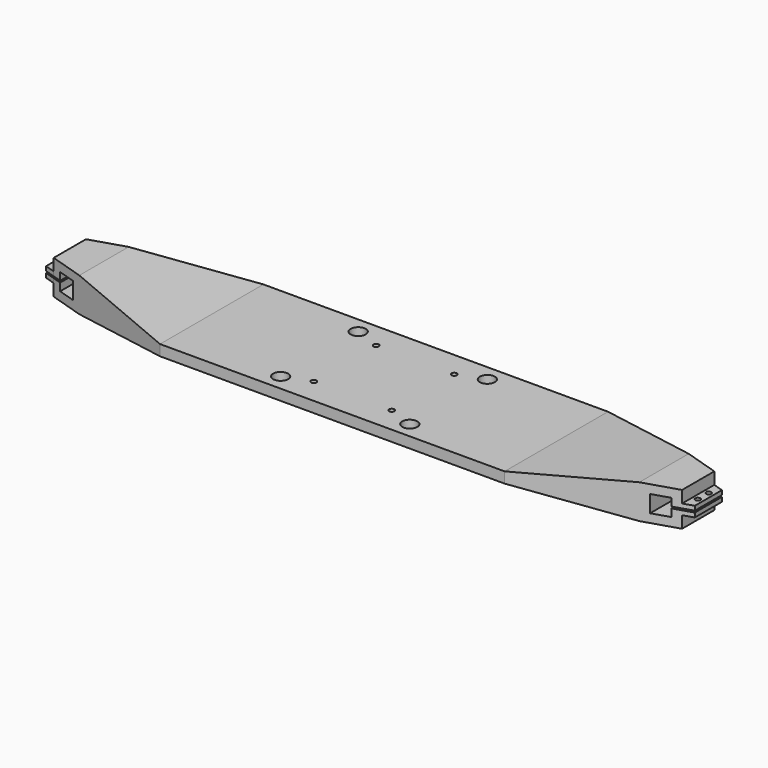
from build123d import *

# Parameters (mm, degrees)
F0_W     = 6
F0_H     = 2.54
F0_W_2   = 63.5
F0_H_2   = 6.35
F0_W_3   = 101.6
F1_DEPTH = 76.2
F2_R     = 4.445
F2_R_2   = 1.5875
F3_DEPTH = 25.4
F4_R     = 1.5
F5_DEPTH = 13.121
F7_DEPTH = 20.161


with BuildPart() as f1:
    # F0 (on Front) → F1 (new body)
    with BuildSketch(Plane.XZ):
        Polygon((-180.18, 3.675), (-180.18, 8.175), (-170.18, 8.175), (-170.18, -1.825), (-180.18, -1.825), (-180.18, 2.675), (-185.26, 2.675), (-185.26, 0.135), (-185.26, -6.905), (-165.1, -6.905), (-165.1, 0), (-165.1, 6.35), (-165.1, 13.255), (-185.26, 13.255), (-185.26, 6.215), (-185.26, 3.675), align=None)
        with Locations((-188.26, 4.945)):
            Rectangle(F0_W, F0_H)
        with Locations((-188.26, 1.405)):
            Rectangle(F0_W, F0_H)
        Polygon((-101.6, 6.35), (-165.1, 13.255), (-165.1, 6.35), align=None)
        with Locations((-133.35, 3.175)):
            Rectangle(F0_W_2, F0_H_2)
        with Locations((-50.8, 3.175)):
            Rectangle(F0_W_3, F0_H_2)
        Polygon((-101.6, 0), (-165.1, 0), (-165.1, -6.905), align=None)
        with Locations((50.8, 3.175)):
            Rectangle(F0_W_3, F0_H_2)
        with Locations((133.35, 3.175)):
            Rectangle(F0_W_2, F0_H_2)
        Polygon((165.1, 13.255), (101.6, 6.35), (165.1, 6.35), align=None)
        Polygon((165.1, 0), (101.6, 0), (165.1, -6.905), align=None)
        Polygon((165.1, 13.255), (165.1, 6.35), (165.1, 0), (165.1, -6.905), (185.26, -6.905), (185.26, 0.135), (185.26, 2.675), (180.18, 2.675), (180.18, -1.825), (170.18, -1.825), (170.18, 8.175), (180.18, 8.175), (180.18, 3.675), (185.26, 3.675), (185.26, 6.215), (185.26, 13.255), align=None)
        with Locations((188.26, 4.945)):
            Rectangle(F0_W, F0_H)
        with Locations((188.26, 1.405)):
            Rectangle(F0_W, F0_H)
    extrude(amount=F1_DEPTH)

    # F2 (on face) → F3 (cut)
    with BuildSketch(Plane.XY.offset(6.35)):
        with Locations((-38.1, -9.525)):
            Circle(F2_R)
        with Locations((38.1, -9.525)):
            Circle(F2_R)
        with Locations((38.1, -66.675)):
            Circle(F2_R)
        with Locations((-38.1, -66.675)):
            Circle(F2_R)
        with Locations((-22.9969, -15.1031)):
            Circle(F2_R_2)
        with Locations((22.9969, -61.0969)):
            Circle(F2_R_2)
        with Locations((22.9969, -15.1031)):
            Circle(F2_R_2)
        with Locations((-22.9969, -61.0969)):
            Circle(F2_R_2)
    extrude(amount=-F3_DEPTH, mode=Mode.SUBTRACT)

    # F4 (on face) → F5 (cut, through all)
    with BuildSketch(Plane.XY.offset(6.215)):
        with Locations((-188.26, -34.1)):
            Circle(F4_R)
        with Locations((-188.26, -42.1)):
            Circle(F4_R)
        with Locations((188.26, -42.1)):
            Circle(F4_R)
        with Locations((188.26, -34.1)):
            Circle(F4_R)
    extrude(amount=-F5_DEPTH, mode=Mode.SUBTRACT)

    # F6 (on face) → F7 (cut, through all)
    with BuildSketch(Plane.XY.offset(13.255)):
        Polygon((-165.1, -19.9012937765), (-101.6, 0), (-165.1, 0), align=None)
        Polygon((-185.26, -26.2195627928), (-165.1, -19.9012937765), (-165.1, 0), (-185.26, 0), align=None)
        Polygon((-191.26, -28.1), (-185.26, -26.2195627928), (-185.26, 0), (-191.26, 0), align=None)
        Polygon((-185.26, -76.2), (-185.26, -49.9804372072), (-191.26, -48.1), (-191.26, -76.2), align=None)
        Polygon((-165.1, -76.2), (-165.1, -56.2987062235), (-185.26, -49.9804372072), (-185.26, -76.2), align=None)
        Polygon((-101.6, -76.2), (-165.1, -56.2987062235), (-165.1, -76.2), align=None)
        Polygon((191.26, -48.1), (101.6, -76.2), (191.26, -76.2), align=None)
        Polygon((191.26, 0), (101.6, 0), (191.26, -28.1), align=None)
    extrude(amount=-F7_DEPTH, mode=Mode.SUBTRACT)


solid = f1.part
